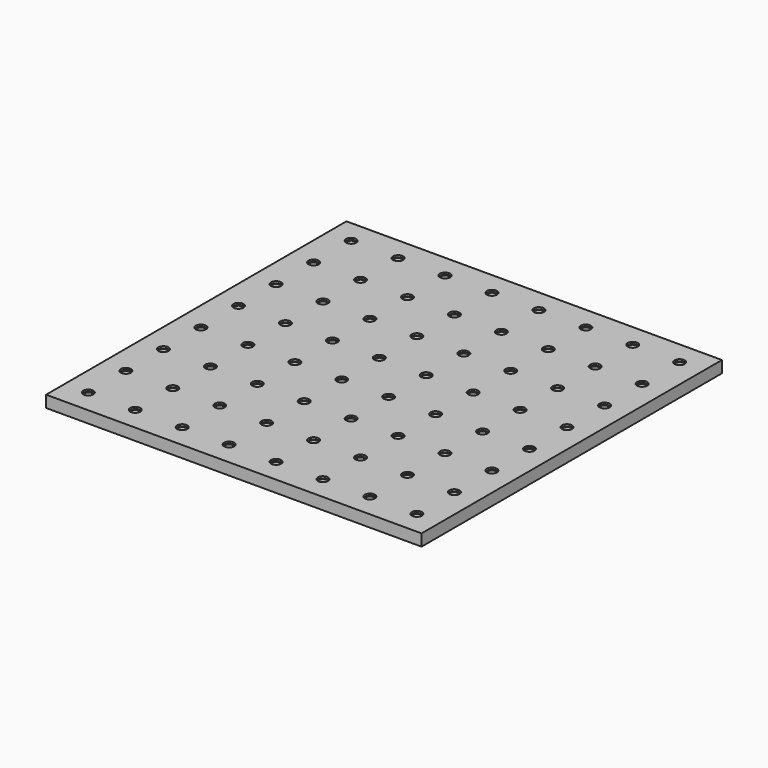
from build123d import *

# Parameters (mm, degrees)
F0_W     = 406.4
F0_H     = 406.4
F0_R     = 5.5
F0_R_2   = 4
F1_DEPTH = 12.7
F2_DEPTH = 2


with BuildPart() as f1:
    # F0 (on Top) → F1 (new body)
    with BuildSketch(Plane.XY):
        with Locations((203.2, -203.2)):
            Rectangle(F0_W, F0_H)
        with Locations((25.4, -381)):
            Circle(F0_R, mode=Mode.SUBTRACT)
        with Locations((76.2, -381)):
            Circle(F0_R, mode=Mode.SUBTRACT)
        with Locations((25.4, -330.2)):
            Circle(F0_R, mode=Mode.SUBTRACT)
        with Locations((76.2, -330.2)):
            Circle(F0_R, mode=Mode.SUBTRACT)
        with Locations((127, -381)):
            Circle(F0_R, mode=Mode.SUBTRACT)
        with Locations((177.8, -381)):
            Circle(F0_R, mode=Mode.SUBTRACT)
        with Locations((127, -330.2)):
            Circle(F0_R, mode=Mode.SUBTRACT)
        with Locations((177.8, -330.2)):
            Circle(F0_R, mode=Mode.SUBTRACT)
        with Locations((25.4, -279.4)):
            Circle(F0_R, mode=Mode.SUBTRACT)
        with Locations((76.2, -279.4)):
            Circle(F0_R, mode=Mode.SUBTRACT)
        with Locations((25.4, -228.6)):
            Circle(F0_R, mode=Mode.SUBTRACT)
        with Locations((76.2, -228.6)):
            Circle(F0_R, mode=Mode.SUBTRACT)
        with Locations((127, -279.4)):
            Circle(F0_R, mode=Mode.SUBTRACT)
        with Locations((177.8, -279.4)):
            Circle(F0_R, mode=Mode.SUBTRACT)
        with Locations((127, -228.6)):
            Circle(F0_R, mode=Mode.SUBTRACT)
        with Locations((177.8, -228.6)):
            Circle(F0_R, mode=Mode.SUBTRACT)
        with Locations((228.6, -381)):
            Circle(F0_R, mode=Mode.SUBTRACT)
        with Locations((279.4, -381)):
            Circle(F0_R, mode=Mode.SUBTRACT)
        with Locations((228.6, -330.2)):
            Circle(F0_R, mode=Mode.SUBTRACT)
        with Locations((279.4, -330.2)):
            Circle(F0_R, mode=Mode.SUBTRACT)
        with Locations((330.2, -381)):
            Circle(F0_R, mode=Mode.SUBTRACT)
        with Locations((381, -381)):
            Circle(F0_R, mode=Mode.SUBTRACT)
        with Locations((330.2, -330.2)):
            Circle(F0_R, mode=Mode.SUBTRACT)
        with Locations((381, -330.2)):
            Circle(F0_R, mode=Mode.SUBTRACT)
        with Locations((228.6, -279.4)):
            Circle(F0_R, mode=Mode.SUBTRACT)
        with Locations((279.4, -279.4)):
            Circle(F0_R, mode=Mode.SUBTRACT)
        with Locations((228.6, -228.6)):
            Circle(F0_R, mode=Mode.SUBTRACT)
        with Locations((279.4, -228.6)):
            Circle(F0_R, mode=Mode.SUBTRACT)
        with Locations((330.2, -279.4)):
            Circle(F0_R, mode=Mode.SUBTRACT)
        with Locations((381, -279.4)):
            Circle(F0_R, mode=Mode.SUBTRACT)
        with Locations((330.2, -228.6)):
            Circle(F0_R, mode=Mode.SUBTRACT)
        with Locations((381, -228.6)):
            Circle(F0_R, mode=Mode.SUBTRACT)
        with Locations((25.4, -177.8)):
            Circle(F0_R, mode=Mode.SUBTRACT)
        with Locations((76.2, -177.8)):
            Circle(F0_R, mode=Mode.SUBTRACT)
        with Locations((25.4, -127)):
            Circle(F0_R, mode=Mode.SUBTRACT)
        with Locations((76.2, -127)):
            Circle(F0_R, mode=Mode.SUBTRACT)
        with Locations((127, -177.8)):
            Circle(F0_R, mode=Mode.SUBTRACT)
        with Locations((177.8, -177.8)):
            Circle(F0_R, mode=Mode.SUBTRACT)
        with Locations((127, -127)):
            Circle(F0_R, mode=Mode.SUBTRACT)
        with Locations((177.8, -127)):
            Circle(F0_R, mode=Mode.SUBTRACT)
        with Locations((25.4, -76.2)):
            Circle(F0_R, mode=Mode.SUBTRACT)
        with Locations((76.2, -76.2)):
            Circle(F0_R, mode=Mode.SUBTRACT)
        with Locations((25.4, -25.4)):
            Circle(F0_R, mode=Mode.SUBTRACT)
        with Locations((76.2, -25.4)):
            Circle(F0_R, mode=Mode.SUBTRACT)
        with Locations((127, -76.2)):
            Circle(F0_R, mode=Mode.SUBTRACT)
        with Locations((177.8, -76.2)):
            Circle(F0_R, mode=Mode.SUBTRACT)
        with Locations((127, -25.4)):
            Circle(F0_R, mode=Mode.SUBTRACT)
        with Locations((177.8, -25.4)):
            Circle(F0_R, mode=Mode.SUBTRACT)
        with Locations((228.6, -177.8)):
            Circle(F0_R, mode=Mode.SUBTRACT)
        with Locations((279.4, -177.8)):
            Circle(F0_R, mode=Mode.SUBTRACT)
        with Locations((228.6, -127)):
            Circle(F0_R, mode=Mode.SUBTRACT)
        with Locations((279.4, -127)):
            Circle(F0_R, mode=Mode.SUBTRACT)
        with Locations((330.2, -177.8)):
            Circle(F0_R, mode=Mode.SUBTRACT)
        with Locations((381, -177.8)):
            Circle(F0_R, mode=Mode.SUBTRACT)
        with Locations((330.2, -127)):
            Circle(F0_R, mode=Mode.SUBTRACT)
        with Locations((381, -127)):
            Circle(F0_R, mode=Mode.SUBTRACT)
        with Locations((228.6, -76.2)):
            Circle(F0_R, mode=Mode.SUBTRACT)
        with Locations((279.4, -76.2)):
            Circle(F0_R, mode=Mode.SUBTRACT)
        with Locations((228.6, -25.4)):
            Circle(F0_R, mode=Mode.SUBTRACT)
        with Locations((279.4, -25.4)):
            Circle(F0_R, mode=Mode.SUBTRACT)
        with Locations((330.2, -76.2)):
            Circle(F0_R, mode=Mode.SUBTRACT)
        with Locations((381, -76.2)):
            Circle(F0_R, mode=Mode.SUBTRACT)
        with Locations((330.2, -25.4)):
            Circle(F0_R, mode=Mode.SUBTRACT)
        with Locations((381, -25.4)):
            Circle(F0_R, mode=Mode.SUBTRACT)
        with Locations((25.4, -25.4)):
            Circle(F0_R)
        with Locations((25.4, -25.4)):
            Circle(F0_R_2, mode=Mode.SUBTRACT)
        with Locations((76.2, -25.4)):
            Circle(F0_R)
        with Locations((76.2, -25.4)):
            Circle(F0_R_2, mode=Mode.SUBTRACT)
        with Locations((127, -25.4)):
            Circle(F0_R)
        with Locations((127, -25.4)):
            Circle(F0_R_2, mode=Mode.SUBTRACT)
        with Locations((177.8, -25.4)):
            Circle(F0_R)
        with Locations((177.8, -25.4)):
            Circle(F0_R_2, mode=Mode.SUBTRACT)
        with Locations((228.6, -25.4)):
            Circle(F0_R)
        with Locations((228.6, -25.4)):
            Circle(F0_R_2, mode=Mode.SUBTRACT)
        with Locations((279.4, -25.4)):
            Circle(F0_R)
        with Locations((279.4, -25.4)):
            Circle(F0_R_2, mode=Mode.SUBTRACT)
        with Locations((330.2, -25.4)):
            Circle(F0_R)
        with Locations((330.2, -25.4)):
            Circle(F0_R_2, mode=Mode.SUBTRACT)
        with Locations((381, -25.4)):
            Circle(F0_R)
        with Locations((381, -25.4)):
            Circle(F0_R_2, mode=Mode.SUBTRACT)
        with Locations((25.4, -76.2)):
            Circle(F0_R)
        with Locations((25.4, -76.2)):
            Circle(F0_R_2, mode=Mode.SUBTRACT)
        with Locations((76.2, -76.2)):
            Circle(F0_R)
        with Locations((76.2, -76.2)):
            Circle(F0_R_2, mode=Mode.SUBTRACT)
        with Locations((127, -76.2)):
            Circle(F0_R)
        with Locations((127, -76.2)):
            Circle(F0_R_2, mode=Mode.SUBTRACT)
        with Locations((177.8, -76.2)):
            Circle(F0_R)
        with Locations((177.8, -76.2)):
            Circle(F0_R_2, mode=Mode.SUBTRACT)
        with Locations((228.6, -76.2)):
            Circle(F0_R)
        with Locations((228.6, -76.2)):
            Circle(F0_R_2, mode=Mode.SUBTRACT)
        with Locations((279.4, -76.2)):
            Circle(F0_R)
        with Locations((279.4, -76.2)):
            Circle(F0_R_2, mode=Mode.SUBTRACT)
        with Locations((330.2, -76.2)):
            Circle(F0_R)
        with Locations((330.2, -76.2)):
            Circle(F0_R_2, mode=Mode.SUBTRACT)
        with Locations((381, -76.2)):
            Circle(F0_R)
        with Locations((381, -76.2)):
            Circle(F0_R_2, mode=Mode.SUBTRACT)
        with Locations((381, -127)):
            Circle(F0_R)
        with Locations((381, -127)):
            Circle(F0_R_2, mode=Mode.SUBTRACT)
        with Locations((330.2, -127)):
            Circle(F0_R)
        with Locations((330.2, -127)):
            Circle(F0_R_2, mode=Mode.SUBTRACT)
        with Locations((279.4, -127)):
            Circle(F0_R)
        with Locations((279.4, -127)):
            Circle(F0_R_2, mode=Mode.SUBTRACT)
        with Locations((228.6, -127)):
            Circle(F0_R)
        with Locations((228.6, -127)):
            Circle(F0_R_2, mode=Mode.SUBTRACT)
        with Locations((177.8, -127)):
            Circle(F0_R)
        with Locations((177.8, -127)):
            Circle(F0_R_2, mode=Mode.SUBTRACT)
        with Locations((127, -127)):
            Circle(F0_R)
        with Locations((127, -127)):
            Circle(F0_R_2, mode=Mode.SUBTRACT)
        with Locations((76.2, -127)):
            Circle(F0_R)
        with Locations((76.2, -127)):
            Circle(F0_R_2, mode=Mode.SUBTRACT)
        with Locations((25.4, -127)):
            Circle(F0_R)
        with Locations((25.4, -127)):
            Circle(F0_R_2, mode=Mode.SUBTRACT)
        with Locations((25.4, -177.8)):
            Circle(F0_R)
        with Locations((25.4, -177.8)):
            Circle(F0_R_2, mode=Mode.SUBTRACT)
        with Locations((76.2, -177.8)):
            Circle(F0_R)
        with Locations((76.2, -177.8)):
            Circle(F0_R_2, mode=Mode.SUBTRACT)
        with Locations((127, -177.8)):
            Circle(F0_R)
        with Locations((127, -177.8)):
            Circle(F0_R_2, mode=Mode.SUBTRACT)
        with Locations((177.8, -177.8)):
            Circle(F0_R)
        with Locations((177.8, -177.8)):
            Circle(F0_R_2, mode=Mode.SUBTRACT)
        with Locations((228.6, -177.8)):
            Circle(F0_R)
        with Locations((228.6, -177.8)):
            Circle(F0_R_2, mode=Mode.SUBTRACT)
        with Locations((279.4, -177.8)):
            Circle(F0_R)
        with Locations((279.4, -177.8)):
            Circle(F0_R_2, mode=Mode.SUBTRACT)
        with Locations((330.2, -177.8)):
            Circle(F0_R)
        with Locations((330.2, -177.8)):
            Circle(F0_R_2, mode=Mode.SUBTRACT)
        with Locations((381, -177.8)):
            Circle(F0_R)
        with Locations((381, -177.8)):
            Circle(F0_R_2, mode=Mode.SUBTRACT)
        with Locations((381, -228.6)):
            Circle(F0_R)
        with Locations((381, -228.6)):
            Circle(F0_R_2, mode=Mode.SUBTRACT)
        with Locations((330.2, -228.6)):
            Circle(F0_R)
        with Locations((330.2, -228.6)):
            Circle(F0_R_2, mode=Mode.SUBTRACT)
        with Locations((279.4, -228.6)):
            Circle(F0_R)
        with Locations((279.4, -228.6)):
            Circle(F0_R_2, mode=Mode.SUBTRACT)
        with Locations((228.6, -228.6)):
            Circle(F0_R)
        with Locations((228.6, -228.6)):
            Circle(F0_R_2, mode=Mode.SUBTRACT)
        with Locations((177.8, -228.6)):
            Circle(F0_R)
        with Locations((177.8, -228.6)):
            Circle(F0_R_2, mode=Mode.SUBTRACT)
        with Locations((127, -228.6)):
            Circle(F0_R)
        with Locations((127, -228.6)):
            Circle(F0_R_2, mode=Mode.SUBTRACT)
        with Locations((76.2, -228.6)):
            Circle(F0_R)
        with Locations((76.2, -228.6)):
            Circle(F0_R_2, mode=Mode.SUBTRACT)
        with Locations((25.4, -228.6)):
            Circle(F0_R)
        with Locations((25.4, -228.6)):
            Circle(F0_R_2, mode=Mode.SUBTRACT)
        with Locations((25.4, -279.4)):
            Circle(F0_R)
        with Locations((25.4, -279.4)):
            Circle(F0_R_2, mode=Mode.SUBTRACT)
        with Locations((76.2, -279.4)):
            Circle(F0_R)
        with Locations((76.2, -279.4)):
            Circle(F0_R_2, mode=Mode.SUBTRACT)
        with Locations((127, -279.4)):
            Circle(F0_R)
        with Locations((127, -279.4)):
            Circle(F0_R_2, mode=Mode.SUBTRACT)
        with Locations((177.8, -279.4)):
            Circle(F0_R)
        with Locations((177.8, -279.4)):
            Circle(F0_R_2, mode=Mode.SUBTRACT)
        with Locations((228.6, -279.4)):
            Circle(F0_R)
        with Locations((228.6, -279.4)):
            Circle(F0_R_2, mode=Mode.SUBTRACT)
        with Locations((279.4, -279.4)):
            Circle(F0_R)
        with Locations((279.4, -279.4)):
            Circle(F0_R_2, mode=Mode.SUBTRACT)
        with Locations((330.2, -279.4)):
            Circle(F0_R)
        with Locations((330.2, -279.4)):
            Circle(F0_R_2, mode=Mode.SUBTRACT)
        with Locations((381, -279.4)):
            Circle(F0_R)
        with Locations((381, -279.4)):
            Circle(F0_R_2, mode=Mode.SUBTRACT)
        with Locations((381, -330.2)):
            Circle(F0_R)
        with Locations((381, -330.2)):
            Circle(F0_R_2, mode=Mode.SUBTRACT)
        with Locations((330.2, -330.2)):
            Circle(F0_R)
        with Locations((330.2, -330.2)):
            Circle(F0_R_2, mode=Mode.SUBTRACT)
        with Locations((279.4, -330.2)):
            Circle(F0_R)
        with Locations((279.4, -330.2)):
            Circle(F0_R_2, mode=Mode.SUBTRACT)
        with Locations((228.6, -330.2)):
            Circle(F0_R)
        with Locations((228.6, -330.2)):
            Circle(F0_R_2, mode=Mode.SUBTRACT)
        with Locations((177.8, -330.2)):
            Circle(F0_R)
        with Locations((177.8, -330.2)):
            Circle(F0_R_2, mode=Mode.SUBTRACT)
        with Locations((127, -330.2)):
            Circle(F0_R)
        with Locations((127, -330.2)):
            Circle(F0_R_2, mode=Mode.SUBTRACT)
        with Locations((76.2, -330.2)):
            Circle(F0_R)
        with Locations((76.2, -330.2)):
            Circle(F0_R_2, mode=Mode.SUBTRACT)
        with Locations((25.4, -330.2)):
            Circle(F0_R)
        with Locations((25.4, -330.2)):
            Circle(F0_R_2, mode=Mode.SUBTRACT)
        with Locations((25.4, -381)):
            Circle(F0_R)
        with Locations((25.4, -381)):
            Circle(F0_R_2, mode=Mode.SUBTRACT)
        with Locations((76.2, -381)):
            Circle(F0_R)
        with Locations((76.2, -381)):
            Circle(F0_R_2, mode=Mode.SUBTRACT)
        with Locations((127, -381)):
            Circle(F0_R)
        with Locations((127, -381)):
            Circle(F0_R_2, mode=Mode.SUBTRACT)
        with Locations((177.8, -381)):
            Circle(F0_R)
        with Locations((177.8, -381)):
            Circle(F0_R_2, mode=Mode.SUBTRACT)
        with Locations((228.6, -381)):
            Circle(F0_R)
        with Locations((228.6, -381)):
            Circle(F0_R_2, mode=Mode.SUBTRACT)
        with Locations((279.4, -381)):
            Circle(F0_R)
        with Locations((279.4, -381)):
            Circle(F0_R_2, mode=Mode.SUBTRACT)
        with Locations((330.2, -381)):
            Circle(F0_R)
        with Locations((330.2, -381)):
            Circle(F0_R_2, mode=Mode.SUBTRACT)
        with Locations((381, -381)):
            Circle(F0_R)
        with Locations((381, -381)):
            Circle(F0_R_2, mode=Mode.SUBTRACT)
    extrude(amount=-F1_DEPTH)

    # F0 (on Top) → F2 (cut)
    with BuildSketch(Plane.XY):
        with Locations((25.4, -25.4)):
            Circle(F0_R)
        with Locations((25.4, -25.4)):
            Circle(F0_R_2, mode=Mode.SUBTRACT)
        with Locations((76.2, -25.4)):
            Circle(F0_R)
        with Locations((76.2, -25.4)):
            Circle(F0_R_2, mode=Mode.SUBTRACT)
        with Locations((127, -25.4)):
            Circle(F0_R)
        with Locations((127, -25.4)):
            Circle(F0_R_2, mode=Mode.SUBTRACT)
        with Locations((177.8, -25.4)):
            Circle(F0_R)
        with Locations((177.8, -25.4)):
            Circle(F0_R_2, mode=Mode.SUBTRACT)
        with Locations((228.6, -25.4)):
            Circle(F0_R)
        with Locations((228.6, -25.4)):
            Circle(F0_R_2, mode=Mode.SUBTRACT)
        with Locations((279.4, -25.4)):
            Circle(F0_R)
        with Locations((279.4, -25.4)):
            Circle(F0_R_2, mode=Mode.SUBTRACT)
        with Locations((330.2, -25.4)):
            Circle(F0_R)
        with Locations((330.2, -25.4)):
            Circle(F0_R_2, mode=Mode.SUBTRACT)
        with Locations((381, -25.4)):
            Circle(F0_R)
        with Locations((381, -25.4)):
            Circle(F0_R_2, mode=Mode.SUBTRACT)
        with Locations((381, -76.2)):
            Circle(F0_R)
        with Locations((381, -76.2)):
            Circle(F0_R_2, mode=Mode.SUBTRACT)
        with Locations((330.2, -76.2)):
            Circle(F0_R)
        with Locations((330.2, -76.2)):
            Circle(F0_R_2, mode=Mode.SUBTRACT)
        with Locations((279.4, -76.2)):
            Circle(F0_R)
        with Locations((279.4, -76.2)):
            Circle(F0_R_2, mode=Mode.SUBTRACT)
        with Locations((228.6, -76.2)):
            Circle(F0_R)
        with Locations((228.6, -76.2)):
            Circle(F0_R_2, mode=Mode.SUBTRACT)
        with Locations((177.8, -76.2)):
            Circle(F0_R)
        with Locations((177.8, -76.2)):
            Circle(F0_R_2, mode=Mode.SUBTRACT)
        with Locations((127, -76.2)):
            Circle(F0_R)
        with Locations((127, -76.2)):
            Circle(F0_R_2, mode=Mode.SUBTRACT)
        with Locations((76.2, -76.2)):
            Circle(F0_R)
        with Locations((76.2, -76.2)):
            Circle(F0_R_2, mode=Mode.SUBTRACT)
        with Locations((25.4, -76.2)):
            Circle(F0_R)
        with Locations((25.4, -76.2)):
            Circle(F0_R_2, mode=Mode.SUBTRACT)
        with Locations((25.4, -127)):
            Circle(F0_R)
        with Locations((25.4, -127)):
            Circle(F0_R_2, mode=Mode.SUBTRACT)
        with Locations((76.2, -127)):
            Circle(F0_R)
        with Locations((76.2, -127)):
            Circle(F0_R_2, mode=Mode.SUBTRACT)
        with Locations((127, -127)):
            Circle(F0_R)
        with Locations((127, -127)):
            Circle(F0_R_2, mode=Mode.SUBTRACT)
        with Locations((177.8, -127)):
            Circle(F0_R)
        with Locations((177.8, -127)):
            Circle(F0_R_2, mode=Mode.SUBTRACT)
        with Locations((228.6, -127)):
            Circle(F0_R)
        with Locations((228.6, -127)):
            Circle(F0_R_2, mode=Mode.SUBTRACT)
        with Locations((279.4, -127)):
            Circle(F0_R)
        with Locations((279.4, -127)):
            Circle(F0_R_2, mode=Mode.SUBTRACT)
        with Locations((330.2, -127)):
            Circle(F0_R)
        with Locations((330.2, -127)):
            Circle(F0_R_2, mode=Mode.SUBTRACT)
        with Locations((381, -127)):
            Circle(F0_R)
        with Locations((381, -127)):
            Circle(F0_R_2, mode=Mode.SUBTRACT)
        with Locations((381, -177.8)):
            Circle(F0_R)
        with Locations((381, -177.8)):
            Circle(F0_R_2, mode=Mode.SUBTRACT)
        with Locations((330.2, -177.8)):
            Circle(F0_R)
        with Locations((330.2, -177.8)):
            Circle(F0_R_2, mode=Mode.SUBTRACT)
        with Locations((279.4, -177.8)):
            Circle(F0_R)
        with Locations((279.4, -177.8)):
            Circle(F0_R_2, mode=Mode.SUBTRACT)
        with Locations((228.6, -177.8)):
            Circle(F0_R)
        with Locations((228.6, -177.8)):
            Circle(F0_R_2, mode=Mode.SUBTRACT)
        with Locations((177.8, -177.8)):
            Circle(F0_R)
        with Locations((177.8, -177.8)):
            Circle(F0_R_2, mode=Mode.SUBTRACT)
        with Locations((127, -177.8)):
            Circle(F0_R)
        with Locations((127, -177.8)):
            Circle(F0_R_2, mode=Mode.SUBTRACT)
        with Locations((76.2, -177.8)):
            Circle(F0_R)
        with Locations((76.2, -177.8)):
            Circle(F0_R_2, mode=Mode.SUBTRACT)
        with Locations((25.4, -177.8)):
            Circle(F0_R)
        with Locations((25.4, -177.8)):
            Circle(F0_R_2, mode=Mode.SUBTRACT)
        with Locations((25.4, -228.6)):
            Circle(F0_R)
        with Locations((25.4, -228.6)):
            Circle(F0_R_2, mode=Mode.SUBTRACT)
        with Locations((76.2, -228.6)):
            Circle(F0_R)
        with Locations((76.2, -228.6)):
            Circle(F0_R_2, mode=Mode.SUBTRACT)
        with Locations((127, -228.6)):
            Circle(F0_R)
        with Locations((127, -228.6)):
            Circle(F0_R_2, mode=Mode.SUBTRACT)
        with Locations((177.8, -228.6)):
            Circle(F0_R)
        with Locations((177.8, -228.6)):
            Circle(F0_R_2, mode=Mode.SUBTRACT)
        with Locations((228.6, -228.6)):
            Circle(F0_R)
        with Locations((228.6, -228.6)):
            Circle(F0_R_2, mode=Mode.SUBTRACT)
        with Locations((279.4, -228.6)):
            Circle(F0_R)
        with Locations((279.4, -228.6)):
            Circle(F0_R_2, mode=Mode.SUBTRACT)
        with Locations((330.2, -228.6)):
            Circle(F0_R)
        with Locations((330.2, -228.6)):
            Circle(F0_R_2, mode=Mode.SUBTRACT)
        with Locations((381, -228.6)):
            Circle(F0_R)
        with Locations((381, -228.6)):
            Circle(F0_R_2, mode=Mode.SUBTRACT)
        with Locations((381, -279.4)):
            Circle(F0_R)
        with Locations((381, -279.4)):
            Circle(F0_R_2, mode=Mode.SUBTRACT)
        with Locations((330.2, -279.4)):
            Circle(F0_R)
        with Locations((330.2, -279.4)):
            Circle(F0_R_2, mode=Mode.SUBTRACT)
        with Locations((279.4, -279.4)):
            Circle(F0_R)
        with Locations((279.4, -279.4)):
            Circle(F0_R_2, mode=Mode.SUBTRACT)
        with Locations((228.6, -279.4)):
            Circle(F0_R)
        with Locations((228.6, -279.4)):
            Circle(F0_R_2, mode=Mode.SUBTRACT)
        with Locations((177.8, -279.4)):
            Circle(F0_R)
        with Locations((177.8, -279.4)):
            Circle(F0_R_2, mode=Mode.SUBTRACT)
        with Locations((127, -279.4)):
            Circle(F0_R)
        with Locations((127, -279.4)):
            Circle(F0_R_2, mode=Mode.SUBTRACT)
        with Locations((76.2, -279.4)):
            Circle(F0_R)
        with Locations((76.2, -279.4)):
            Circle(F0_R_2, mode=Mode.SUBTRACT)
        with Locations((25.4, -279.4)):
            Circle(F0_R)
        with Locations((25.4, -279.4)):
            Circle(F0_R_2, mode=Mode.SUBTRACT)
        with Locations((25.4, -330.2)):
            Circle(F0_R)
        with Locations((25.4, -330.2)):
            Circle(F0_R_2, mode=Mode.SUBTRACT)
        with Locations((76.2, -330.2)):
            Circle(F0_R)
        with Locations((76.2, -330.2)):
            Circle(F0_R_2, mode=Mode.SUBTRACT)
        with Locations((127, -330.2)):
            Circle(F0_R)
        with Locations((127, -330.2)):
            Circle(F0_R_2, mode=Mode.SUBTRACT)
        with Locations((177.8, -330.2)):
            Circle(F0_R)
        with Locations((177.8, -330.2)):
            Circle(F0_R_2, mode=Mode.SUBTRACT)
        with Locations((228.6, -330.2)):
            Circle(F0_R)
        with Locations((228.6, -330.2)):
            Circle(F0_R_2, mode=Mode.SUBTRACT)
        with Locations((279.4, -330.2)):
            Circle(F0_R)
        with Locations((279.4, -330.2)):
            Circle(F0_R_2, mode=Mode.SUBTRACT)
        with Locations((330.2, -330.2)):
            Circle(F0_R)
        with Locations((330.2, -330.2)):
            Circle(F0_R_2, mode=Mode.SUBTRACT)
        with Locations((381, -330.2)):
            Circle(F0_R)
        with Locations((381, -330.2)):
            Circle(F0_R_2, mode=Mode.SUBTRACT)
        with Locations((381, -381)):
            Circle(F0_R)
        with Locations((381, -381)):
            Circle(F0_R_2, mode=Mode.SUBTRACT)
        with Locations((330.2, -381)):
            Circle(F0_R)
        with Locations((330.2, -381)):
            Circle(F0_R_2, mode=Mode.SUBTRACT)
        with Locations((279.4, -381)):
            Circle(F0_R)
        with Locations((279.4, -381)):
            Circle(F0_R_2, mode=Mode.SUBTRACT)
        with Locations((228.6, -381)):
            Circle(F0_R)
        with Locations((228.6, -381)):
            Circle(F0_R_2, mode=Mode.SUBTRACT)
        with Locations((177.8, -381)):
            Circle(F0_R)
        with Locations((177.8, -381)):
            Circle(F0_R_2, mode=Mode.SUBTRACT)
        with Locations((127, -381)):
            Circle(F0_R)
        with Locations((127, -381)):
            Circle(F0_R_2, mode=Mode.SUBTRACT)
        with Locations((25.4, -381)):
            Circle(F0_R)
        with Locations((25.4, -381)):
            Circle(F0_R_2, mode=Mode.SUBTRACT)
        with Locations((76.2, -381)):
            Circle(F0_R)
        with Locations((76.2, -381)):
            Circle(F0_R_2, mode=Mode.SUBTRACT)
    extrude(amount=-F2_DEPTH, mode=Mode.SUBTRACT)


solid = f1.part
